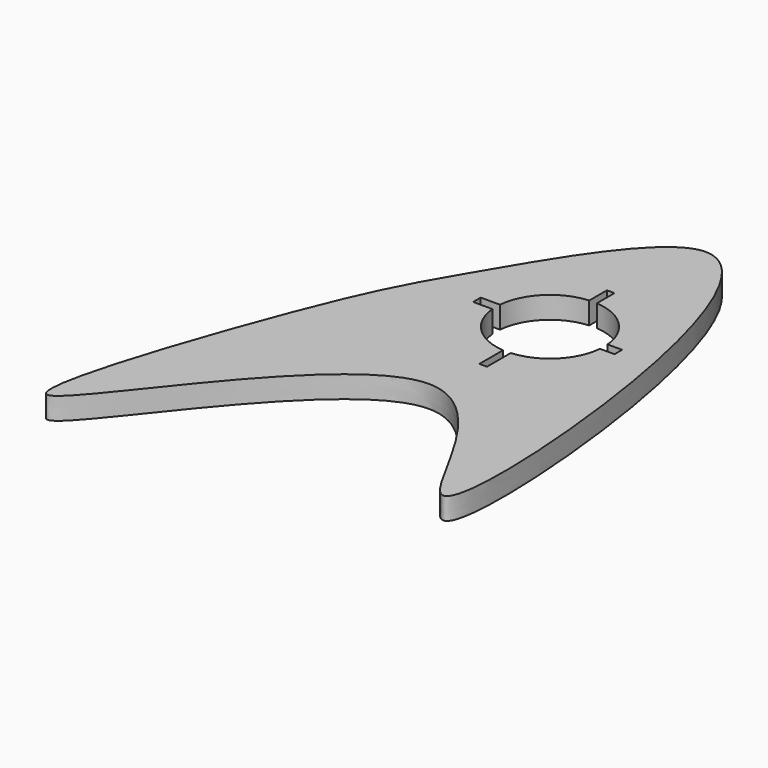
from build123d import *

# Parameters (mm, degrees)
F1_DEPTH = 1.27


with BuildPart() as f1:
    # F0 (on Top) → F1 (new body)
    with BuildSketch(Plane.XY):
        with BuildLine():
            add(Edge.make_bspline(
                [(-50.3175632004, 50.2897321245), (-52.4862384246, 50.1674002007), (-57.6221835874, 41.3645502611), (-60.3968377144, 36.8205547074), (-69.3195453246, 10.6832618923), (-51.1400444544, 41.5666437214), (-43.2766006041, 16.8103664528), (-43.989749351, 38.8587220751), (-47.7977187986, 50.4318730084), (-50.3175632004, 50.2897321245)],
                knots=[0, 0, 0, 0, 0.1277628132, 0.2496927266, 0.4021981193, 0.5700715307, 0.7024394258, 0.8515488138, 1, 1, 1, 1], degree=3))
        make_face()
        with BuildLine():
            ThreePointArc((-50.9194433689, 43.2974091239), (-48.9532547535, 42.4111158824), (-48.0324110687, 40.4608696699))
            Line((-48.0324110687, 40.4608696699), (-47.1899397671, 40.4608696699))
            Line((-47.1899397671, 40.4608696699), (-47.1899397671, 39.9124100804))
            Line((-47.1899397671, 39.9124100804), (-48.0324110687, 39.9124100804))
            ThreePointArc((-48.0324110687, 39.9124100804), (-48.9532547535, 37.9621638679), (-50.9194433689, 37.0758706264))
            Line((-50.9194433689, 37.0758706264), (-50.9194433689, 35.3602208197))
            Line((-50.9194433689, 35.3602208197), (-51.3582080603, 35.3602208197))
            Line((-51.3582080603, 35.3602208197), (-51.3582080603, 37.0758706264))
            ThreePointArc((-51.3582080603, 37.0758706264), (-53.3243966756, 37.9621638679), (-54.2452403605, 39.9124100804))
            Line((-54.2452403605, 39.9124100804), (-55.3619414568, 39.9124100804))
            Line((-55.3619414568, 39.9124100804), (-55.3619414568, 40.4608696699))
            Line((-55.3619414568, 40.4608696699), (-54.2452403605, 40.4608696699))
            ThreePointArc((-54.2452403605, 40.4608696699), (-53.3243966756, 42.4111158824), (-51.3582080603, 43.2974091239))
            Line((-51.3582080603, 43.2974091239), (-51.3582080603, 44.574290514))
            Line((-51.3582080603, 44.574290514), (-50.9194433689, 44.574290514))
            Line((-50.9194433689, 44.574290514), (-50.9194433689, 43.2974091239))
        make_face(mode=Mode.SUBTRACT)
    extrude(amount=F1_DEPTH)


solid = f1.part
